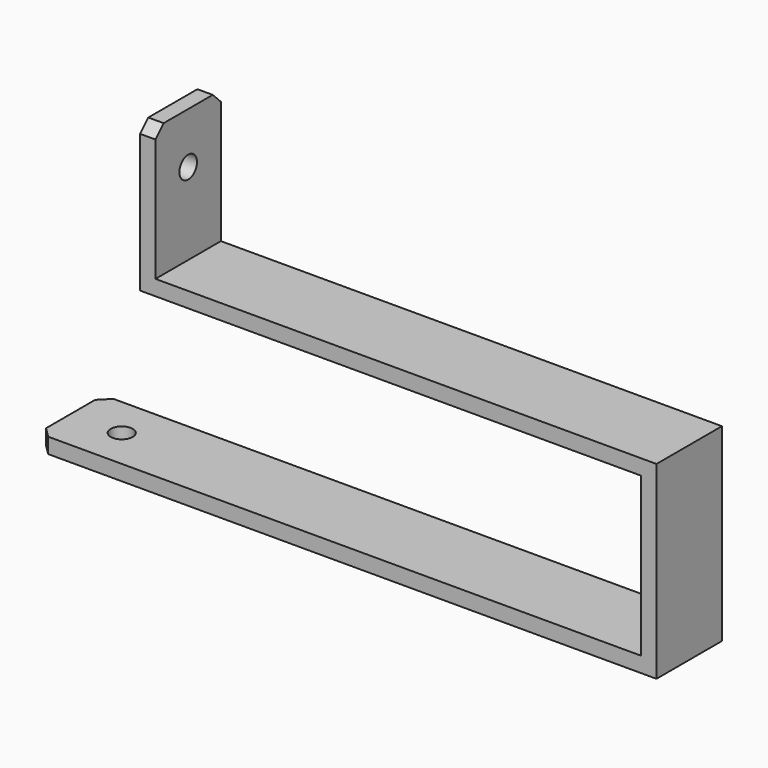
from build123d import *

# Parameters (mm, degrees)
F1_DEPTH = 16
F2_R     = 2.15
F3_DEPTH = 25
F4_R     = 2.15
F5_DEPTH = 25
F6_SIZE  = 2


with BuildPart() as f1:
    # F0 (on Front) → F1 (new body)
    with BuildSketch(Plane.XZ):
        Polygon((98, 0), (0, 0), (-20, 0), (-20, -3), (0, -3), (101, -3), (101, 34), (3, 34), (3, 60), (0, 60), (0, 31), (98, 31), align=None)
    extrude(amount=F1_DEPTH)

    # F2 (on face) → F3 (cut)
    with BuildSketch(Plane.XY):
        with Locations((-10, -8)):
            Circle(F2_R)
    extrude(amount=-F3_DEPTH, mode=Mode.SUBTRACT)

    # F4 (on face) → F5 (cut)
    with BuildSketch(Plane(origin=(0, 0, 0), x_dir=(0, -1, 0), z_dir=(-1, 0, 0))):
        with Locations((8, 50)):
            Circle(F4_R)
    extrude(amount=-F5_DEPTH, mode=Mode.SUBTRACT)

    # F6
    f6_edges = [f1.edges().sort_by_distance(p)[0] for p in [
        (1.5, -16, 60),
        (1.5, 0, 60),
        (-20, -16, -1.5),
        (-20, 0, -1.5),
    ]]
    chamfer(f6_edges, length=F6_SIZE)


solid = f1.part
